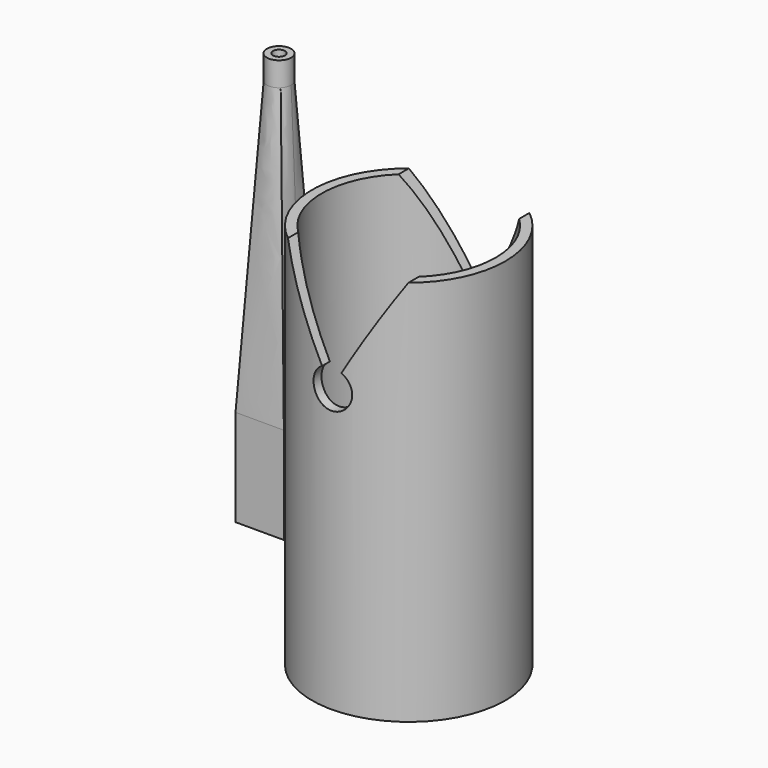
from build123d import *

# Parameters (mm, degrees)
F0_R      = 25.4
F1_DEPTH  = 101.6
F2_R      = 22.86
F3_DEPTH  = 99.06
F6_DEPTH  = 50.8
F0_W      = 12.7
F0_H      = 12.7
F7_DEPTH  = 25.4
F8_R      = 3.175
F9_DEPTH  = 6.35
F9_FACE_R = 3.175
F7_FACE_W = 12.7
F7_FACE_H = 12.7
F11_R     = 1.5875
F12_DEPTH = 130.048


with BuildPart() as f1:
    # F0 (on Top) → F1 (new body)
    with BuildSketch(Plane.XY):
        Circle(F0_R)
    extrude(amount=F1_DEPTH)

    # F2 (on face) → F3 (cut)
    with BuildSketch(Plane.XY.offset(101.6)):
        Circle(F2_R)
    extrude(amount=-F3_DEPTH, mode=Mode.SUBTRACT)

    # F5 (on offset) → F6 (cut)
    with BuildSketch(Plane.XZ.offset(25.4)):
        with BuildLine():
            Line((17.1430092305, 103.8575321436), (-17.1430092305, 103.8575321436))
            Line((-17.1430092305, 103.8575321436), (-2.54, 78.564378213))
            ThreePointArc((-2.54, 78.564378213), (0, 79.2449691618), (2.54, 78.564378213))
            Line((2.54, 78.564378213), (17.1430092305, 103.8575321436))
        make_face()
        with BuildLine():
            ThreePointArc((2.54, 78.564378213), (0, 79.2449691618), (-2.54, 78.564378213))
            Line((-2.54, 78.564378213), (0, 74.1649691618))
            Line((0, 74.1649691618), (2.54, 78.564378213))
        make_face()
        with BuildLine():
            Line((17.1430092305, 103.8575321436), (-17.1430092305, 103.8575321436))
            Line((-17.1430092305, 103.8575321436), (-2.54, 78.564378213))
            ThreePointArc((-2.54, 78.564378213), (0, 79.2449691618), (2.54, 78.564378213))
            Line((2.54, 78.564378213), (17.1430092305, 103.8575321436))
        make_face()
        with BuildLine():
            Line((0, 74.1649691618), (-2.54, 78.564378213))
            ThreePointArc((-2.54, 78.564378213), (-2.54, 69.7655601105), (5.08, 74.1649691618))
            ThreePointArc((5.08, 74.1649691618), (4.3994090512, 76.7049691618), (2.54, 78.564378213))
            Line((2.54, 78.564378213), (0, 74.1649691618))
        make_face()
    extrude(amount=-F6_DEPTH, mode=Mode.SUBTRACT)


with BuildPart() as f7:
    # F0 (on Top) → F7 (new body)
    with BuildSketch(Plane.XY):
        with Locations((-60.9781401396, 33.637106961)):
            Rectangle(F0_W, F0_H)
    extrude(amount=F7_DEPTH)

    # F9_face (on face) → F10 section 0
    with BuildSketch(Plane(origin=(-60.9781401396, 33.637106961, 101.6), x_dir=(1, 0, 0), z_dir=(0, 0, -1))):
        Circle(F9_FACE_R)
    # F7_face (on face) → F10 section 1
    with BuildSketch(Plane(origin=(-60.9781401396, 33.637106961, 25.4), x_dir=(1, 0, 0), z_dir=(0, 0, 1))):
        Rectangle(F7_FACE_W, F7_FACE_H)
    loft()


with BuildPart() as f9:
    # F8 (on face) → F9 (new body)
    with BuildSketch(Plane.XY.offset(101.6)):
        with Locations((-60.9781401396, 33.637106961)):
            Circle(F8_R)
    extrude(amount=F9_DEPTH)


with BuildPart() as f12_tool:
    # F11 (on face) → F12 (new body)
    with BuildSketch(Plane.XY.offset(107.95)):
        with Locations((-60.9781401396, 33.637106961)):
            Circle(F11_R)
    extrude(amount=-F12_DEPTH)


with BuildPart() as f7_1:
    add(f7.part)

    # F12: cut by f12_tool
    add(f12_tool.part, mode=Mode.SUBTRACT)


with BuildPart() as f9_1:
    add(f9.part)

    # F12: cut by f12_tool
    add(f12_tool.part, mode=Mode.SUBTRACT)


solid = Compound([f1.part, f7_1.part, f9_1.part])
